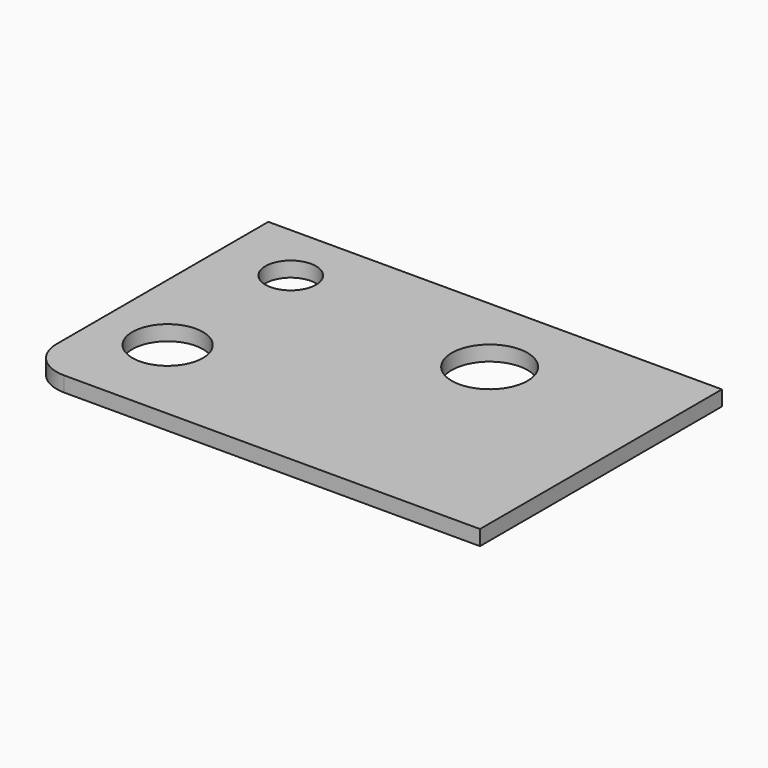
from build123d import *

# Parameters (mm, degrees)
F0_W     = 60
F0_H     = 40
F1_DEPTH = 2
F2_R     = 3.343447
F2_R_2   = 4.664946
F2_R_3   = 5.011125
F3_DEPTH = 2
F4_R     = 5


with BuildPart() as f1:
    # F0 (on Top) → F1 (new body)
    with BuildSketch(Plane.XY):
        with Locations((2.640124, -1.107821)):
            Rectangle(F0_W, F0_H)
    extrude(amount=F1_DEPTH)

    # F2 (on face) → F3 (cut)
    with BuildSketch(Plane.XY.offset(2)):
        with Locations((-18.054973, 10.971558)):
            Circle(F2_R)
        with Locations((-18.267456, -9.115866)):
            Circle(F2_R_2)
        with Locations((10.761856, 7.836044)):
            Circle(F2_R_3)
    extrude(amount=-F3_DEPTH, mode=Mode.SUBTRACT)

    # F4
    f4_edges = [f1.edges().sort_by_distance(p)[0] for p in [
        (-27.359876, -21.107821, 1),
    ]]
    fillet(f4_edges, radius=F4_R)


solid = f1.part
